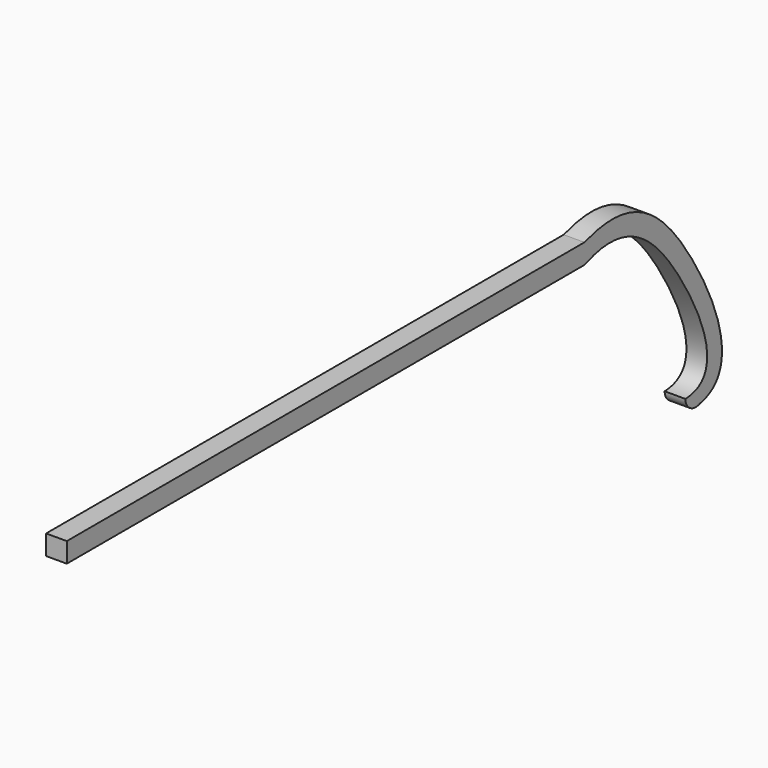
from build123d import *

# Parameters (mm, degrees)
F1_DEPTH = 3.175


with BuildPart() as f1:
    # F0 (on Right) → F1 (new body)
    with BuildSketch(Plane.YZ):
        with BuildLine():
            Line((41.5727805566, 21.2788749112), (-57.4872194434, 21.2788749112))
            Line((-57.4872194434, 21.2788749112), (-57.4872194434, 18.2308749112))
            Line((-57.4872194434, 18.2308749112), (41.5727805566, 18.2308749112))
            add(Edge.make_bspline(
                [(41.5727805566, 18.2308749112), (49.5192518818, 21.3740867433), (59.6344478786, 12.8472307337), (68.4785019542, -7.4157701366), (60.8827510452, -7.6716801462)],
                knots=[0, 0, 0, 0, 0.5219314623, 1, 1, 1, 1], degree=3))
            ThreePointArc((60.8827510452, -7.6716801462), (61.811727417, -9.2935680541), (63.6755938667, -9.4332796962))
            add(Edge.make_bspline(
                [(41.5727805566, 21.2788749112), (50.5056689295, 24.2580571675), (61.544379535, 15.6663643407), (71.7502984163, -7.8613617778), (63.6755938667, -9.4332796962)],
                knots=[0, 0, 0, 0, 0.5034739391, 1, 1, 1, 1], degree=3))
        make_face()
    extrude(amount=F1_DEPTH)


solid = f1.part
